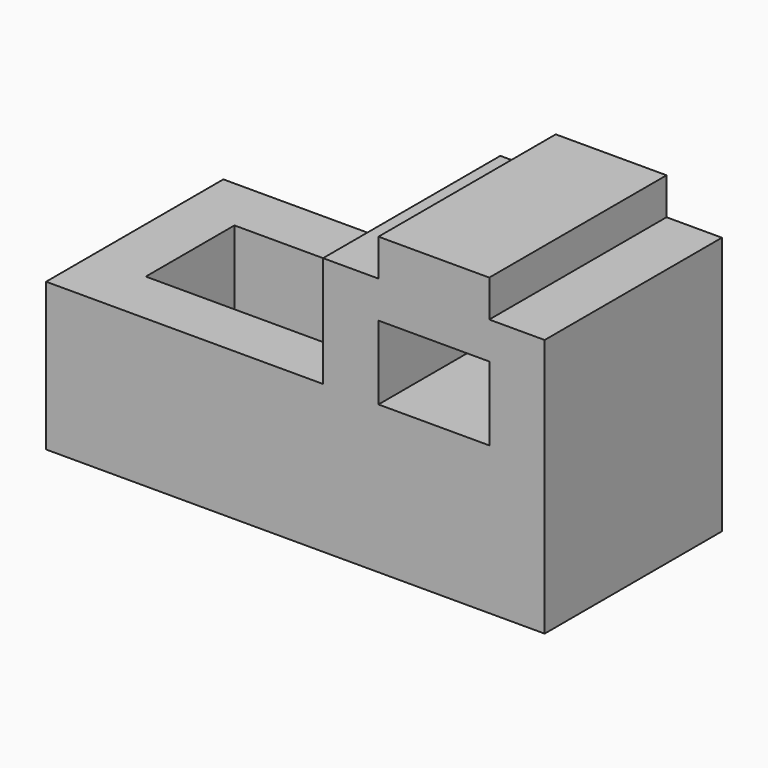
from build123d import *

# Parameters (mm, degrees)
F0_W      = 2743.2
F0_H      = 1625.6
F1_DEPTH  = 1219.2
F2_W      = 304.8
F2_H      = 203.2
F3_DEPTH  = 1219.201
F4_W      = 1524
F4_H      = 812.8
F5_DEPTH  = 1219.201
F6_W      = 304.8
F6_H      = 203.2
F7_DEPTH  = 1219.201
F8_W      = 609.6
F8_H      = 406.4
F9_DEPTH  = 1219.201
F10_W     = 1219.2
F10_H     = 609.6
F11_DEPTH = 609.6


with BuildPart() as f1:
    # F0 (on Front) → F1 (new body)
    with BuildSketch(Plane.XZ):
        with Locations((1371.6, 812.8)):
            Rectangle(F0_W, F0_H)
    extrude(amount=F1_DEPTH)

    # F2 (on face) → F3 (cut, through all)
    with BuildSketch(Plane.XZ.offset(1219.2)):
        with Locations((2590.8, 1524)):
            Rectangle(F2_W, F2_H)
    extrude(amount=-F3_DEPTH, mode=Mode.SUBTRACT)

    # F4 (on face) → F5 (cut, through all)
    with BuildSketch(Plane.XZ.offset(1219.2)):
        with Locations((762, 1219.2)):
            Rectangle(F4_W, F4_H)
    extrude(amount=-F5_DEPTH, mode=Mode.SUBTRACT)

    # F6 (on face) → F7 (cut, through all)
    with BuildSketch(Plane.XZ.offset(1219.2)):
        with Locations((1676.4, 1524)):
            Rectangle(F6_W, F6_H)
    extrude(amount=-F7_DEPTH, mode=Mode.SUBTRACT)

    # F8 (on face) → F9 (cut, through all)
    with BuildSketch(Plane.XZ.offset(1219.2)):
        with Locations((2133.6, 1016)):
            Rectangle(F8_W, F8_H)
    extrude(amount=-F9_DEPTH, mode=Mode.SUBTRACT)

    # F10 (on face) → F11 (cut)
    with BuildSketch(Plane.XY.offset(812.8)):
        with Locations((914.4, -609.6)):
            Rectangle(F10_W, F10_H)
    extrude(amount=-F11_DEPTH, mode=Mode.SUBTRACT)


solid = f1.part
